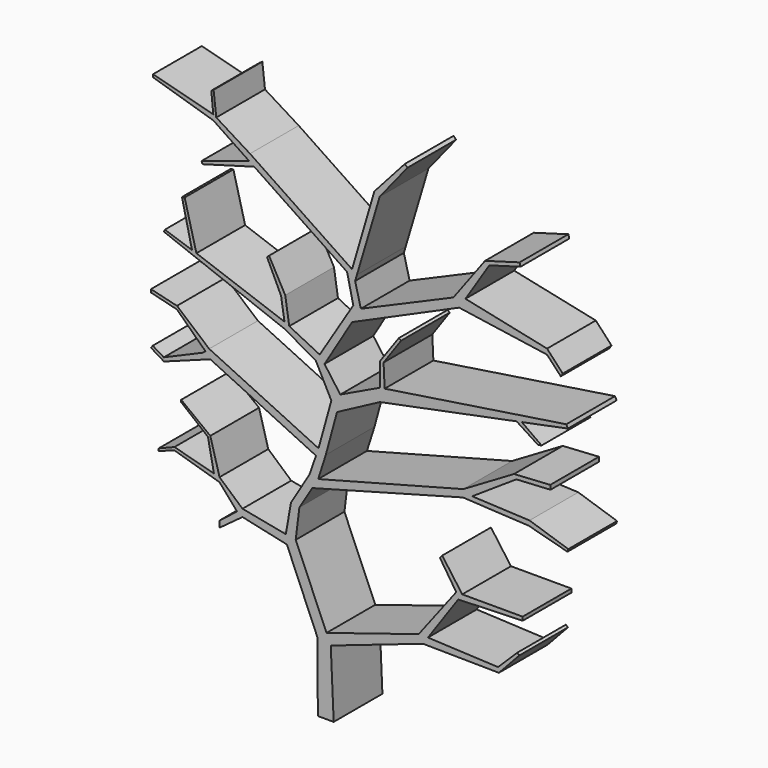
from build123d import *

# Parameters (mm, degrees)
F1_DEPTH = 200


with BuildPart() as f1:
    # F0 (on Front) → F1 (new body)
    with BuildSketch(Plane.XZ):
        Polygon((-369.296074, 860.103846), (-252.222359, 781.455187), (-248.795434, 803.075274), (-359.538714, 871.651432), (-369.296074, 877.693534), align=None)
        Polygon((86.229337, 578.00982), (102.297463, 567.215454), (176.989675, 817.272305), (159.574956, 827.140868), align=None)
        Polygon((47.703233, 203.298303), (36.957281, 149.250944), (177.764803, 223.871082), (177.764803, 265.354425), align=None)
        Polygon((-395.137998, 184.585006), (-382.793993, 195.368357), (-488.34646, 285.545486), (-488.302618, 285.309941), (-488.635778, 274.76051), align=None)
        Polygon((-531.360984, 110.484615), (-379.167348, 166.403156), (-402.947897, 177.762512), (-531.832361, 122.413635), align=None)
        Polygon((2.565403, -500.237301), (16.359659, -532.357335), (319.279872, -428.741529), (305.078506, -405.49764), align=None)
        Polygon((-19.985075, 296.750159), (-4.052614, 274.753479), (86.380119, 425.346863), (115.178615, 473.303646), (90.32318, 474.886388), align=None)
        Polygon((-27.504601, -522.620559), (16.359659, -532.357335), (2.565403, -500.237301), (-98.492666, -264.92278), (-98.84321, -264.855158), (-131.214753, -258.610427), (-140.553485, -256.808911), (-137.378573, -264.274074), (-127.665923, -287.111413), align=None)
        Polygon((-24.854315, -64.498566), (-44.484516, -96.92555), (450.421533, 36.795169), (467.866212, 41.508619), (451.568961, 61.298091), align=None)
        Polygon((-348.866686, -310.636839), (-273.434583, -255.175081), (-273.434583, -231.175081), (-291.156466, -244.943347), (-348.866686, -289.778855), align=None)
        Polygon((-379.167348, 166.403156), (-32.11826, 0.626743), (-23.780994, 24.570884), (-382.793993, 195.368357), (-395.137998, 184.585006), (-402.947897, 177.762512), align=None)
        Polygon((-439.231479, 462.925151), (-424.822895, 458.121201), (-463.330506, 606.581709), (-472.21759, 605.160534), align=None)
        Polygon((115.178615, 473.303646), (86.380119, 425.346863), (437.898695, 581.404746), (418.918312, 604.574621), align=None)
        Polygon((-404.833034, 721.9197), (-235.007594, 769.890523), (-252.222359, 781.455187), (-407.638371, 730.471313), align=None)
        Polygon((-135.523954, 354.126599), (-119.959313, 346.397221), (-133.090726, 431.585663), (-186.222941, 528.623852), (-193.045956, 522.75474), (-146.845546, 425.733876), align=None)
        Polygon((458.64677, 613.760918), (437.898695, 581.404746), (726.593494, 539.26003), (726.593494, 556.879818), align=None)
        Polygon((636.286535, 776.768744), (522.923824, 744.332003), (536.942677, 735.861683), (639.587648, 765.231731), align=None)
        Polygon((467.866212, 41.508619), (450.421533, 36.795169), (666.4446, 25.382621), (793.553748, -8.556767), (796.343327, 0), (669.01958, 41.508619), (480.751061, 50.054641), align=None)
        Polygon((335.479707, -405.49764), (319.279872, -428.741529), (568.452358, -431.648523), (565.515757, -415.986478), align=None)
        Polygon((-23.780994, 24.570884), (0, 13.257272), (36.957281, 149.250944), (6.303291, 133.006038), align=None)
        Polygon((177.764803, 265.354425), (177.764803, 223.871082), (626.504063, 314.041543), (643.625182, 317.481891), (794.811727, 347.861582), (789.644241, 358.691961), (193.296715, 267.723699), align=None)
        Polygon((-435.548306, 448.704898), (-135.523954, 333.758116), (-135.523954, 354.126599), (-424.822895, 458.121201), align=None)
        Polygon((159.574956, 827.140868), (176.989675, 817.272305), (268.250609, 930.605381), (259.307712, 938.606918), align=None)
        Polygon((-291.156466, -244.943347), (-273.434583, -231.175081), (-348.866686, -164.524183), (-348.866686, -179.095539), align=None)
        Polygon((-114.152497, -161.216129), (-86.680702, -166.629118), (-44.484516, -96.92555), (-24.854315, -64.498566), (-53.700276, -61.355551), align=None)
        Polygon((418.918312, 604.574621), (437.898695, 581.404746), (458.64677, 613.760918), (536.942677, 735.861683), (522.923824, 744.332003), align=None)
        Polygon((-367.221205, -159.679715), (-348.866686, -164.524183), (-379.069601, -54.813134), (-386.85894, -60.159795), align=None)
        Polygon((-135.523954, 333.758116), (-32.865988, 275.321412), (-19.985075, 296.750159), (-119.959313, 346.397221), (-135.523954, 354.126599), align=None)
        Polygon((-98.84321, -264.855158), (-98.492666, -264.92278), (-98.771259, -264.274074), (-86.680702, -166.629118), (-114.152497, -161.216129), (-131.214753, -258.610427), align=None)
        Polygon((-273.434583, -255.175081), (-127.665923, -287.111413), (-137.378573, -264.274074), (-140.553485, -256.808911), (-273.434583, -231.175081), align=None)
        Polygon((736.995518, 166.414723), (618.033409, 159.081429), (625.630806, 146.147769), (737.853944, 152.489179), align=None)
        Polygon((305.078506, -405.49764), (319.279872, -428.741529), (335.479707, -405.49764), (434.80089, -262.989367), (448.050529, -243.978485), (428.385645, -243.978485), align=None)
        Polygon((18.307742, 176.274624), (47.703233, 203.298303), (-4.052614, 274.753479), (-19.985075, 296.750159), (-32.865988, 275.321412), align=None)
        Polygon((375.046786, -162.758924), (428.385645, -243.978485), (448.050529, -243.978485), (382.328452, -153.220721), align=None)
        Polygon((618.033409, 159.081429), (451.568961, 61.298091), (467.866212, 41.508619), (480.751061, 50.054641), (625.630806, 146.147769), align=None)
        Polygon((-567.206264, 920.252979), (-369.296074, 860.103846), (-369.296074, 877.693534), (-567.206264, 929.252979), align=None)
        Polygon((-235.007594, 769.890523), (69.973044, 565.008342), (96.346088, 547.291261), (102.297463, 567.215454), (86.229337, 578.00982), (-248.795434, 803.075274), (-252.222359, 781.455187), align=None)
        Polygon((69.973044, 565.008342), (90.32318, 474.886388), (115.178615, 473.303646), (96.346088, 547.291261), align=None)
        Polygon((-26, -750), (0, -750), (26, -750), (16.359659, -532.357335), (-27.504601, -522.620559), align=None)
        Polygon((177.764803, 342.098653), (177.764803, 265.354425), (193.296715, 267.723699), (189.764803, 342.098653), align=None)
        Polygon((-496.074945, -135.48176), (-496.71203, -125.502074), (-548.627883, -146.178946), (-548.627883, -153.460398), align=None)
        Polygon((726.593494, 556.879818), (726.593494, 539.26003), (771.621823, 491.295099), (778.099352, 501.396665), align=None)
        Polygon((-348.866686, -179.095539), (-348.866686, -164.524183), (-367.221205, -159.679715), (-496.71203, -125.502074), (-496.074945, -135.48176), align=None)
        Polygon((565.515757, -415.986478), (568.452358, -431.648523), (635.317527, -359.778498), (628.163874, -354.317248), align=None)
        Polygon((-369.296074, 877.693534), (-359.538714, 871.651432), (-368.308287, 948.842063), (-375.864416, 943.952799), align=None)
        Polygon((-531.10688, 485.458205), (-435.548306, 448.704898), (-424.822895, 458.121201), (-439.231479, 462.925151), (-528.345922, 492.636694), align=None)
        Polygon((-573.983948, 295.886798), (-488.635778, 274.76051), (-488.302618, 285.309941), (-573.983948, 305.886798), align=None)
        Polygon((6.303291, 133.006038), (36.957281, 149.250944), (47.703233, 203.298303), (18.307742, 176.274624), align=None)
        Polygon((239.989832, 429.213673), (177.764803, 342.098653), (189.764803, 342.098653), (247.313433, 423.982528), align=None)
        Polygon((-386.85894, -60.159795), (-379.069601, -54.813134), (-474.725813, 18.311166), (-474.725813, 11.253227), align=None)
        Polygon((643.625182, 317.481891), (626.504063, 314.041543), (696.974933, 268.784612), (708.739766, 271.148659), align=None)
        Polygon((-32.11826, 0.626743), (-53.700276, -61.355551), (-24.854315, -64.498566), (0, 13.257272), (-23.780994, 24.570884), align=None)
        Polygon((448.050529, -243.978485), (434.80089, -262.989367), (646.405697, -255.978485), (646.405697, -243.978485), align=None)
        Polygon((-551.066445, 122.413635), (-531.360984, 110.484615), (-531.832361, 122.413635), (-568.067963, 144.349445), (-573.983948, 136.287118), align=None)
    extrude(amount=F1_DEPTH)


solid = f1.part
